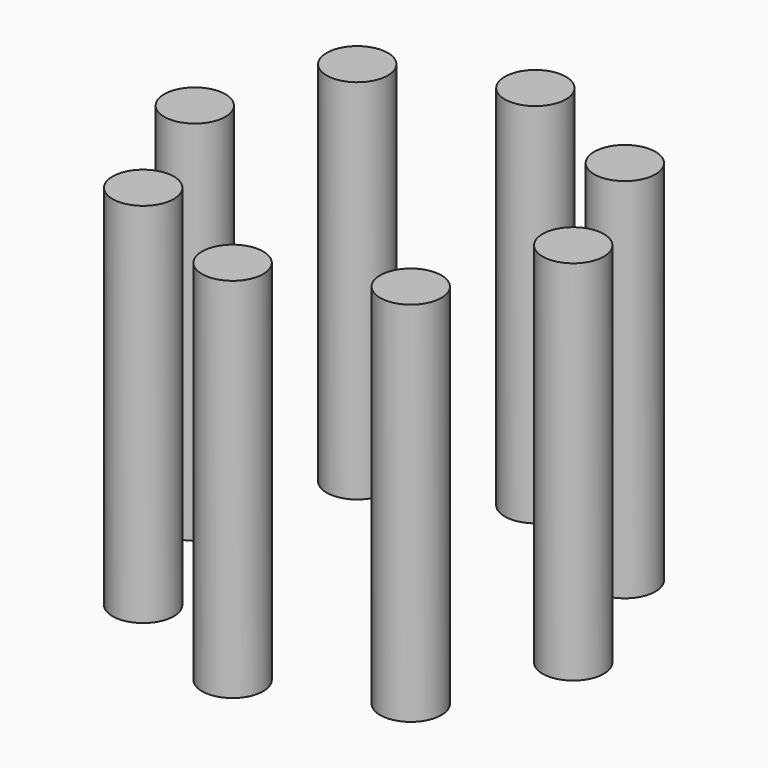
from build123d import *

# Parameters (mm, degrees)
F0_R     = 1.5
F1_DEPTH = 18
F3_COUNT = 8


with BuildPart() as f1:
    # F0 (on Top) → F1 (new body)
    with BuildSketch(Plane.XY):
        with Locations((0, 9.271739)):
            Circle(F0_R)
    extrude(amount=F1_DEPTH)


with BuildPart() as f3_1:
    # F3: instance of F1
    add(f1.part.rotate(Axis((0, 0, 27.504561), (0, 0, 1)), 1 * 360 / F3_COUNT))


with BuildPart() as f3_2:
    # F3: instance of F1
    add(f1.part.rotate(Axis((0, 0, 27.504561), (0, 0, 1)), 2 * 360 / F3_COUNT))


with BuildPart() as f3_3:
    # F3: instance of F1
    add(f1.part.rotate(Axis((0, 0, 27.504561), (0, 0, 1)), 3 * 360 / F3_COUNT))


with BuildPart() as f3_4:
    # F3: instance of F1
    add(f1.part.rotate(Axis((0, 0, 27.504561), (0, 0, 1)), 4 * 360 / F3_COUNT))


with BuildPart() as f3_5:
    # F3: instance of F1
    add(f1.part.rotate(Axis((0, 0, 27.504561), (0, 0, 1)), 5 * 360 / F3_COUNT))


with BuildPart() as f3_6:
    # F3: instance of F1
    add(f1.part.rotate(Axis((0, 0, 27.504561), (0, 0, 1)), 6 * 360 / F3_COUNT))


with BuildPart() as f3_7:
    # F3: instance of F1
    add(f1.part.rotate(Axis((0, 0, 27.504561), (0, 0, 1)), 7 * 360 / F3_COUNT))


solid = Compound([f1.part, f3_1.part, f3_2.part, f3_3.part, f3_4.part, f3_5.part, f3_6.part, f3_7.part])
